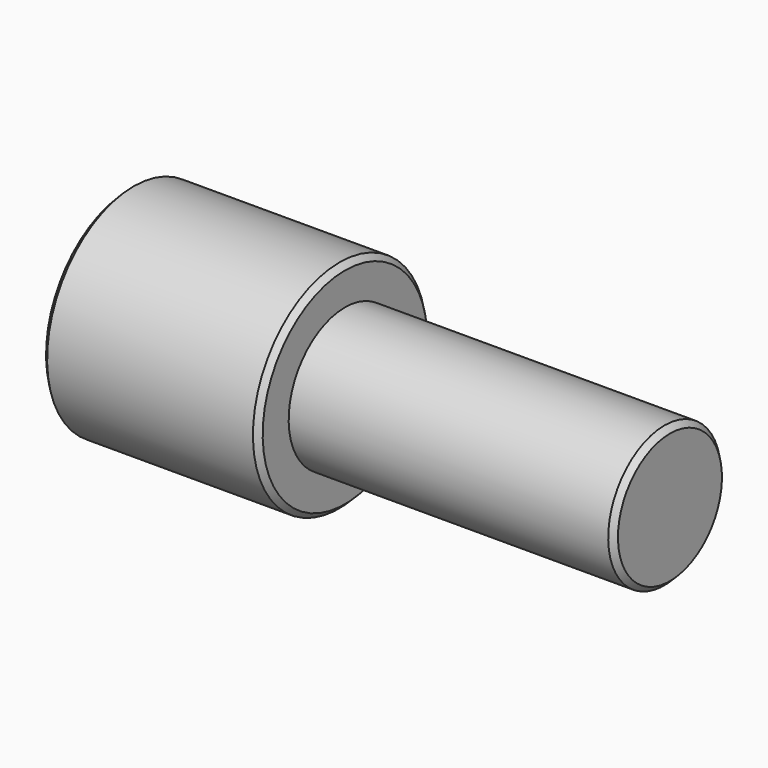
from build123d import *

# Parameters (mm, degrees)
F2_SIZE = 0.5
F3_SIZE = 0.5


with BuildPart() as f1:
    # F0 (on Front) → F1 (revolve)
    with BuildSketch(Plane.XZ):
        Polygon((0, 3.5), (0, 0), (0, -6.5), (50, -6.5), (50, 0), (20, 0), (20, 3.5), align=None)
    revolve(axis=Axis((25, 0, -6.5), (-1, 0, 0)))

    # F2
    f2_edges = [f1.edges().sort_by_distance(p)[0] for p in [
        (50, 0, -13),
    ]]
    chamfer(f2_edges, length=F2_SIZE)

    # F3
    f3_edges = [f1.edges().sort_by_distance(p)[0] for p in [
        (20, 0, -16.5),
        (0, 0, -16.5),
    ]]
    chamfer(f3_edges, length=F3_SIZE)


solid = f1.part
